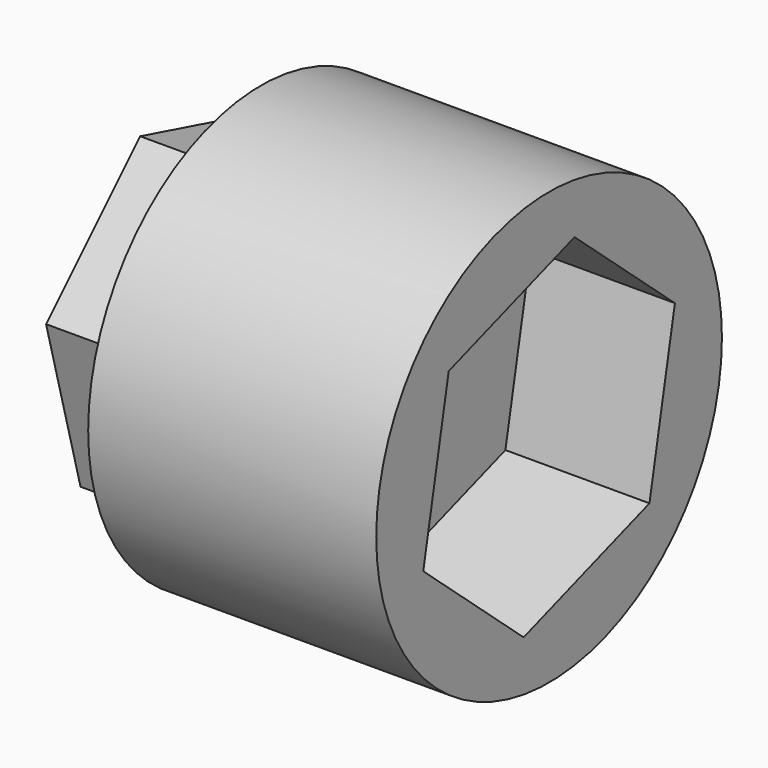
from build123d import *

# Parameters (mm, degrees)
F0_R     = 19.05
F1_DEPTH = 25.4
F3_DEPTH = 12.7
F5_DEPTH = 7.62


with BuildPart() as f1:
    # F0 (on Right) → F1 (new body)
    with BuildSketch(Plane.YZ):
        Circle(F0_R)
    extrude(amount=F1_DEPTH)

    # F2 (on face) + F0 (on Right) → F3 (cut)
    with BuildSketch(Plane.YZ.offset(25.4)):
        Polygon((13.868033, 4.767703), (2.805065, 14.39392), (-11.062968, 9.626218), (-13.868033, -4.767703), (-2.805065, -14.39392), (11.062968, -9.626218), align=None)
    with BuildSketch(Plane.YZ):
        Circle(F0_R)
    extrude(amount=-F3_DEPTH, mode=Mode.SUBTRACT)

    # F4 (on Right) → F5 (join)
    with BuildSketch(Plane.YZ):
        Polygon((3.795503, -14.165009), (14.165009, -3.795503), (10.369507, 10.369507), (-3.795503, 14.165009), (-14.165009, 3.795503), (-10.369507, -10.369507), align=None)
    extrude(amount=-F5_DEPTH)


solid = f1.part
